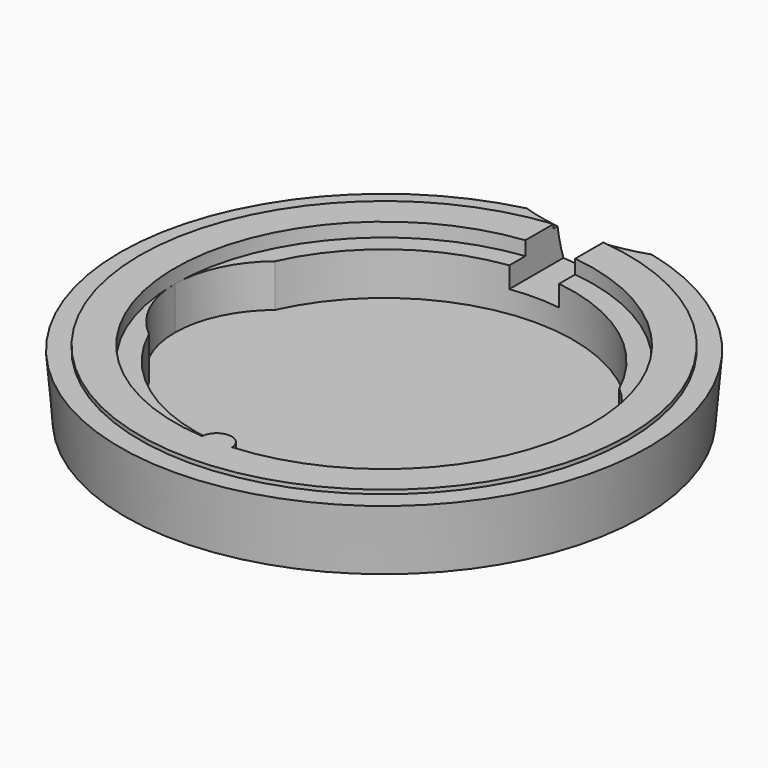
from build123d import *

# Parameters (mm, degrees)
F3_DEPTH = 4.3
F4_R     = 1.5
F5_DEPTH = 1.4
F8_W     = 5
F8_H     = 5.686849
F9_DEPTH = 26.096882


with BuildPart() as f1:
    # F0 (on Front) → F1 (revolve)
    with BuildSketch(Plane.XZ):
        Polygon((-25.972747, 0), (0, 0), (0, 1), (-19, 1), (-19, 5.3), (-21, 5.3), (-21, 6.7), (-24.5, 6.7), (-24.5, 6.3), (-26.5, 6.3), align=None)
    revolve(axis=Axis((0, 0, 0.5), (0, 0, 1)))

    # F2 (on face) → F3 (cut, through all)
    with BuildSketch(Plane.XY.offset(5.3)):
        with BuildLine():
            ThreePointArc((-17.27907, -7.901503), (-19, 0), (-17.27907, 7.901503))
            ThreePointArc((-17.27907, 7.901503), (-20.023227, 4.366894), (-21, 0))
            ThreePointArc((-21, 0), (-20.023227, -4.366895), (-17.27907, -7.901503))
        make_face()
        with BuildLine():
            ThreePointArc((-17.27907, -7.901503), (-19, 0), (-17.27907, 7.901503))
            ThreePointArc((-17.27907, 7.901503), (-20.023227, 4.366894), (-21, 0))
            ThreePointArc((-21, 0), (-20.023227, -4.366895), (-17.27907, -7.901503))
        make_face()
        with BuildLine():
            ThreePointArc((21, 0), (20.023227, 4.366894), (17.27907, 7.901503))
            ThreePointArc((17.27907, 7.901503), (18.564783, 4.04337), (19, 0))
            ThreePointArc((19, 0), (18.564783, -4.04337), (17.27907, -7.901503))
            ThreePointArc((17.27907, -7.901503), (20.023227, -4.366894), (21, 0))
        make_face()
        with BuildLine():
            ThreePointArc((21, 0), (20.023227, 4.366894), (17.27907, 7.901503))
            ThreePointArc((17.27907, 7.901503), (18.564783, 4.04337), (19, 0))
            ThreePointArc((19, 0), (18.564783, -4.04337), (17.27907, -7.901503))
            ThreePointArc((17.27907, -7.901503), (20.023227, -4.366894), (21, 0))
        make_face()
    extrude(amount=-F3_DEPTH, mode=Mode.SUBTRACT)

    # F4 (on face) → F5 (join, through all)
    with BuildSketch(Plane.XY.offset(6.7)):
        with Locations((0, -21)):
            Circle(F4_R)
    extrude(amount=-F5_DEPTH)

    # F6 (on Right) → F7 (revolve, cut)
    with BuildSketch(Plane.YZ):
        with BuildLine():
            Line((44.5, -10.7), (44.5, 29.3))
            ThreePointArc((44.5, 29.3), (24.5, 9.3), (44.5, -10.7))
        make_face()
    revolve(axis=Axis((0, 44.5, 14.897466), (0, 0, 1)), mode=Mode.SUBTRACT)

    # F8 (on Front) → F9 (cut, through all)
    with BuildSketch(Plane.XZ):
        with Locations((0, 6.043424)):
            Rectangle(F8_W, F8_H)
    extrude(amount=-F9_DEPTH, mode=Mode.SUBTRACT)


solid = f1.part
